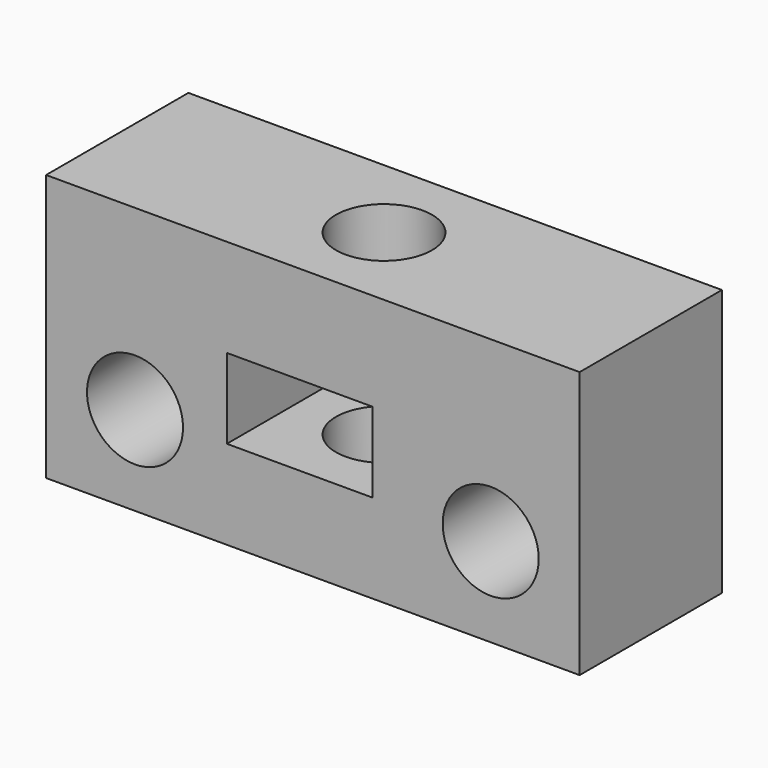
from build123d import *

# Parameters (mm, degrees)
SKETCH_AS_DRAWN_W              = 30
SKETCH_AS_DRAWN_H              = 15
SKETCH_AS_DRAWN_R              = 2.7
EXTRUDE_DEPTH                  = 10
EXTRUDE_ONTO_SKETCH_ROLL_ANGLE = 90
SKETCH001_R                    = 2.7
POCKET_DEPTH                   = 15.001
SKETCH002_W                    = 8.2
SKETCH002_H                    = 4.5
POCKET001_DEPTH                = 10.001


with BuildPart() as part:
    # Sketch as drawn → Extrude (new)
    with BuildSketch(Plane.XY):
        with Locations((15, 7.5)):
            Rectangle(SKETCH_AS_DRAWN_W, SKETCH_AS_DRAWN_H)
        with Locations((5, 5)):
            Circle(SKETCH_AS_DRAWN_R, mode=Mode.SUBTRACT)
        with Locations((25, 5)):
            Circle(SKETCH_AS_DRAWN_R, mode=Mode.SUBTRACT)
    extrude(amount=-EXTRUDE_DEPTH)


with BuildPart() as part_1:
    # Extrude onto Sketch roll: moved
    add(part.part.rotate(Axis((0, 0, 0), (1, 0, 0)), EXTRUDE_ONTO_SKETCH_ROLL_ANGLE))


with BuildPart() as part_2:
    # Extrude onto Sketch placement: moved
    add(part_1.part)

    # Sketch001 → Pocket (cut, through all)
    with BuildSketch(Plane.XY.offset(15)):
        with Locations((15, 5)):
            Circle(SKETCH001_R)
    extrude(amount=-POCKET_DEPTH, mode=Mode.SUBTRACT)

    # Sketch002 → Pocket001 (cut, through all)
    with BuildSketch(Plane.XZ):
        with Locations((14.263317, 7.25)):
            Rectangle(SKETCH002_W, SKETCH002_H)
    extrude(amount=-POCKET001_DEPTH, mode=Mode.SUBTRACT)


solid = part_2.part
